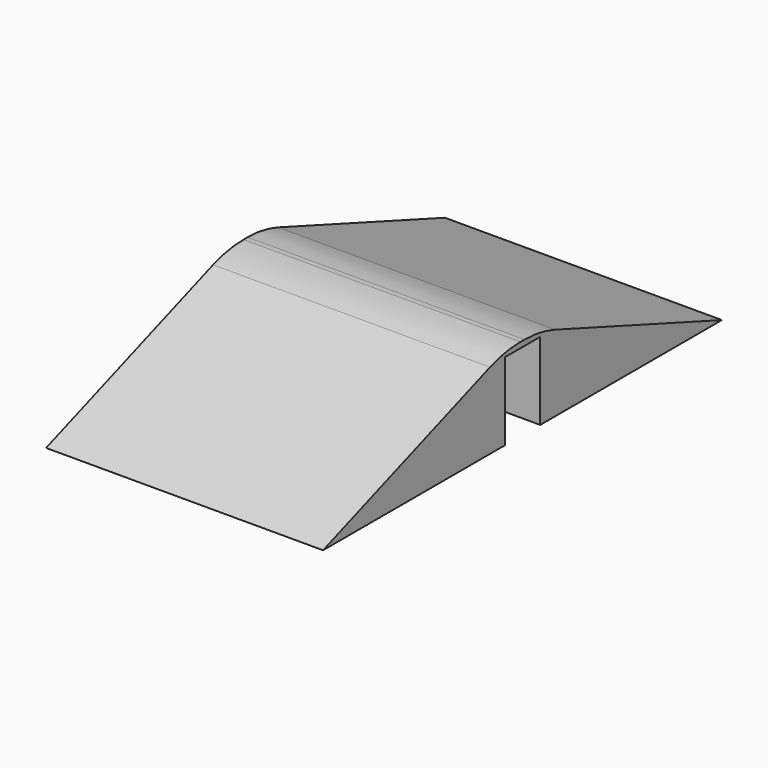
from build123d import *

# Parameters (mm, degrees)
PAD_DEPTH    = 25
FILLET_R     = 28
PAD001_DEPTH = 50
FILLET001_R  = 40


with BuildPart() as f_30deg:
    # Sketch → Pad (new body, symmetric)
    with BuildSketch(Plane.YZ):
        Polygon((-42.641016, 0), (-8, 0), (-8, 18), (8, 18), (8, 0), (42.641016, 0), (8, 20), (-8, 20), align=None)
    extrude(amount=PAD_DEPTH, both=True)

    # Fillet
    fillet_edges = [f_30deg.edges().sort_by_distance(p)[0] for p in [
        (0, -8, 20),
        (0, 8, 20),
    ]]
    fillet(fillet_edges, radius=FILLET_R)


with BuildPart() as f_15deg:
    # Sketch001 → Pad001 (new body, symmetric)
    with BuildSketch(Plane.YZ):
        Polygon((-90, 0), (-8, 0), (-8, 28), (8, 28), (8, 0), (90, 0), (8, 30), (-8, 30), align=None)
    extrude(amount=PAD001_DEPTH, both=True)

    # Fillet001
    fillet001_edges = [f_15deg.edges().sort_by_distance(p)[0] for p in [
        (0, -8, 30),
        (0, 8, 30),
    ]]
    fillet(fillet001_edges, radius=FILLET001_R)


solid = Compound([f_30deg.part, f_15deg.part])
